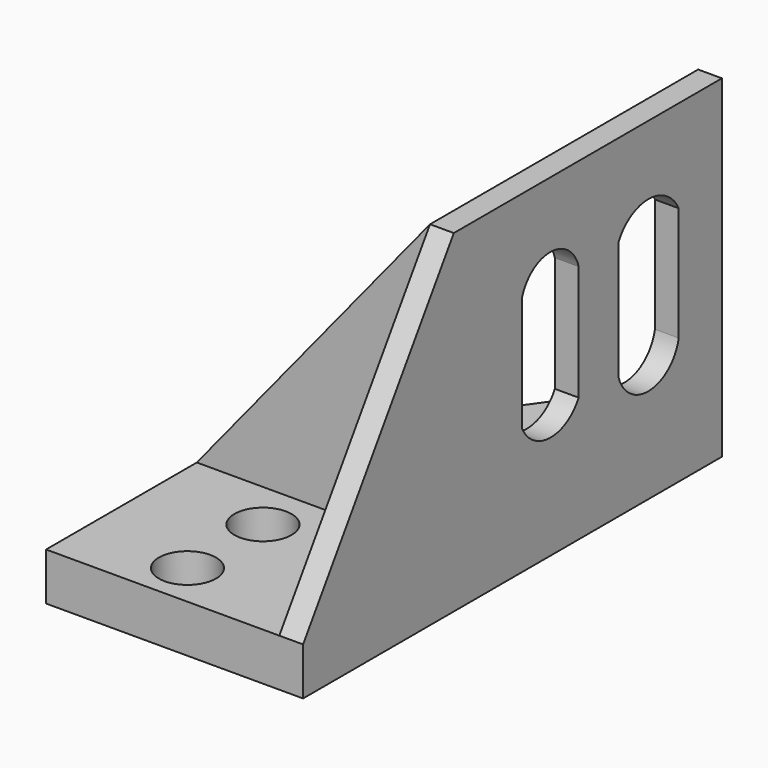
from build123d import *

# Parameters (mm, degrees)
F0_R     = 152.4
F1_DEPTH = 254
F2_W     = 127
F2_H     = 1005.4733751535
F3_DEPTH = 1524
F6_DEPTH = 254
F8_DEPTH = 254
F9_DEPTH = 254


with BuildPart() as f1:
    # F0 (on Top) → F1 (new body)
    with BuildSketch(Plane.XY):
        Polygon((254, -1219.2), (254, 1574.8), (0, 1574.8), (-1117.6, 0), (-1117.6, -1219.2), align=None)
        with Locations((-552.8803467751, -981.9835424423)):
            Circle(F0_R, mode=Mode.SUBTRACT)
        with Locations((-552.8803467751, -478.3061146736)):
            Circle(F0_R, mode=Mode.SUBTRACT)
    extrude(amount=-F1_DEPTH)

    # F2 (on face) → F3 (join)
    with BuildSketch(Plane.XY):
        Polygon((127, 0), (-1117.6, 0), (-1117.6, -213.7266248465), (-431.8, -213.7266248465), (127, -213.7266248465), align=None)
        with Locations((190.5, -716.4633124232)):
            Rectangle(F2_W, F2_H)
        Polygon((127, 1574.8), (127, 0), (127, -213.7266248465), (254, -213.7266248465), (254, 0), (254, 1574.8), align=None)
    extrude(amount=F3_DEPTH)

    # F5 (on face) → F6 (cut)
    with BuildSketch(Plane(origin=(127, 0, 0), x_dir=(0, -1, 0), z_dir=(-1, 0, 0))):
        Polygon((1219.2, 1524), (213.7266248465, 1524), (1219.2, 0), align=None)
    extrude(amount=-F6_DEPTH, mode=Mode.SUBTRACT)

    # F7 (on face) → F8 (cut)
    with BuildSketch(Plane.XZ.offset(213.7266248465)):
        Polygon((-1117.6, 0), (127, 1524), (-1117.6, 1524), align=None)
    extrude(amount=-F8_DEPTH, mode=Mode.SUBTRACT)

    # F4 (on face) → F9 (cut)
    with BuildSketch(Plane(origin=(127, 0, 0), x_dir=(0, -1, 0), z_dir=(-1, 0, 0))):
        with BuildLine():
            Line((-883.9013576508, 403.4678339958), (-883.9013576508, 1033.3504676819))
            ThreePointArc((-883.9013576508, 1033.3504676819), (-1086.1192680246, 1155.8941275066), (-1286.5660190582, 1030.4743051529))
            Line((-1286.5660190582, 1030.4743051529), (-1286.5660190582, 420.7248687744))
            ThreePointArc((-1286.5660190582, 420.7248687744), (-1092.044288841, 253.1821361636), (-883.9013576508, 403.4678339958))
        make_face()
        with BuildLine():
            Line((-239.6377772093, 423.6010611057), (-239.6377772093, 1030.4743051529))
            ThreePointArc((-239.6377772093, 1030.4743051529), (-430.5592294957, 1173.4177468945), (-619.2930936813, 1027.5981426239))
            Line((-619.2930936813, 1027.5981426239), (-619.2930936813, 412.0963513851))
            ThreePointArc((-619.2930936813, 412.0963513851), (-425.9158985225, 300.7140199759), (-239.6377772093, 423.6010611057))
        make_face()
    extrude(amount=-F9_DEPTH, mode=Mode.SUBTRACT)


solid = f1.part
